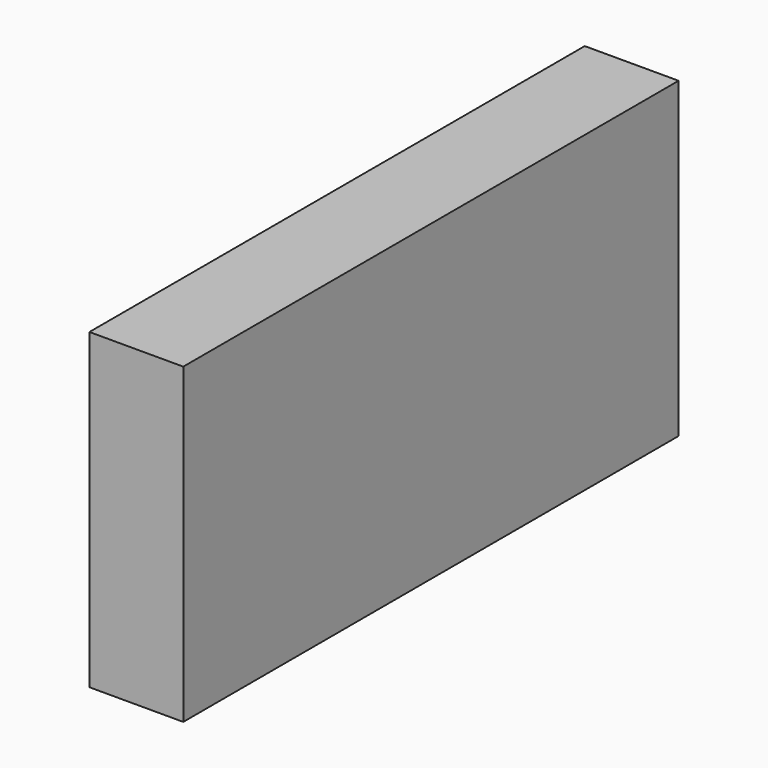
from build123d import *

# Parameters (mm, degrees)
F0_W     = 58.9310228825
F0_H     = 34.0779498219
F1_DEPTH = 19.05


with BuildPart() as f1:
    # F0 (on Right) → F1 (new body)
    with BuildSketch(Plane.YZ):
        with Locations((29.4655114412, -46.4510209858)):
            Rectangle(F0_W, F0_H)
        Polygon((0, 0), (0, -29.4120460749), (58.9310228825, -29.4120460749), (125.6831511855, -29.4120460749), (125.6831511855, 0), align=None)
        Polygon((58.9310228825, -29.4120460749), (58.9310228825, -63.4899958968), (74.8201161623, -63.4899958968), (125.6831511855, -63.4899958968), (125.6831511855, -29.4120460749), align=None)
    extrude(amount=F1_DEPTH)


solid = f1.part
